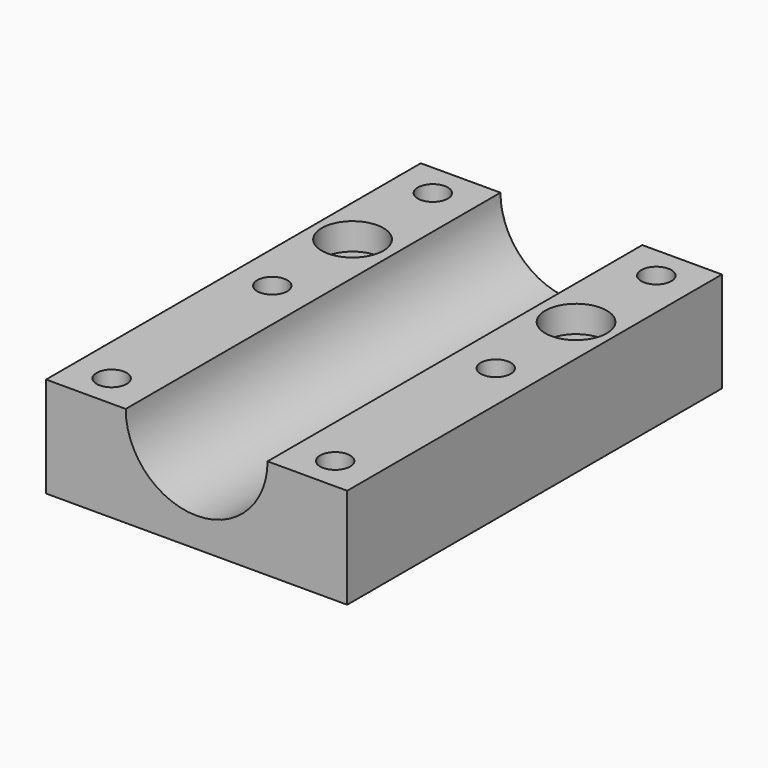
from build123d import *

# Parameters (mm, degrees)
SKETCH_W        = 45
SKETCH_H        = 70
SKETCH_R        = 2.25
PAD_DEPTH       = 15
SKETCH001_R     = 10.6
POCKET_DEPTH    = 70.001
SKETCH002_R     = 4.6
POCKET001_DEPTH = 4


with BuildPart() as part:
    # Sketch → Pad (new body)
    with BuildSketch(Plane.XY):
        Rectangle(SKETCH_W, SKETCH_H)
        with Locations((-16.7, 30)):
            Circle(SKETCH_R, mode=Mode.SUBTRACT)
        with Locations((16.7, 30)):
            Circle(SKETCH_R, mode=Mode.SUBTRACT)
        with Locations((-16.7, -30)):
            Circle(SKETCH_R, mode=Mode.SUBTRACT)
        with Locations((16.7, -30)):
            Circle(SKETCH_R, mode=Mode.SUBTRACT)
        with Locations((-16.7, 0)):
            Circle(SKETCH_R, mode=Mode.SUBTRACT)
        with Locations((16.7, 0)):
            Circle(SKETCH_R, mode=Mode.SUBTRACT)
        with Locations((16.7, 15)):
            Circle(SKETCH_R, mode=Mode.SUBTRACT)
        with Locations((-16.7, 15)):
            Circle(SKETCH_R, mode=Mode.SUBTRACT)
    extrude(amount=PAD_DEPTH)

    # Sketch001 → Pocket (cut, through all)
    with BuildSketch(Plane.XZ.offset(35)):
        with Locations((0, 15)):
            Circle(SKETCH001_R)
    extrude(amount=-POCKET_DEPTH, mode=Mode.SUBTRACT)

    # Sketch002 → Pocket001 (cut)
    with BuildSketch(Plane.XY.offset(15)):
        with Locations((-16.7, 15)):
            Circle(SKETCH002_R)
        with Locations((16.7, 15)):
            Circle(SKETCH002_R)
    extrude(amount=-POCKET001_DEPTH, mode=Mode.SUBTRACT)


solid = part.part
